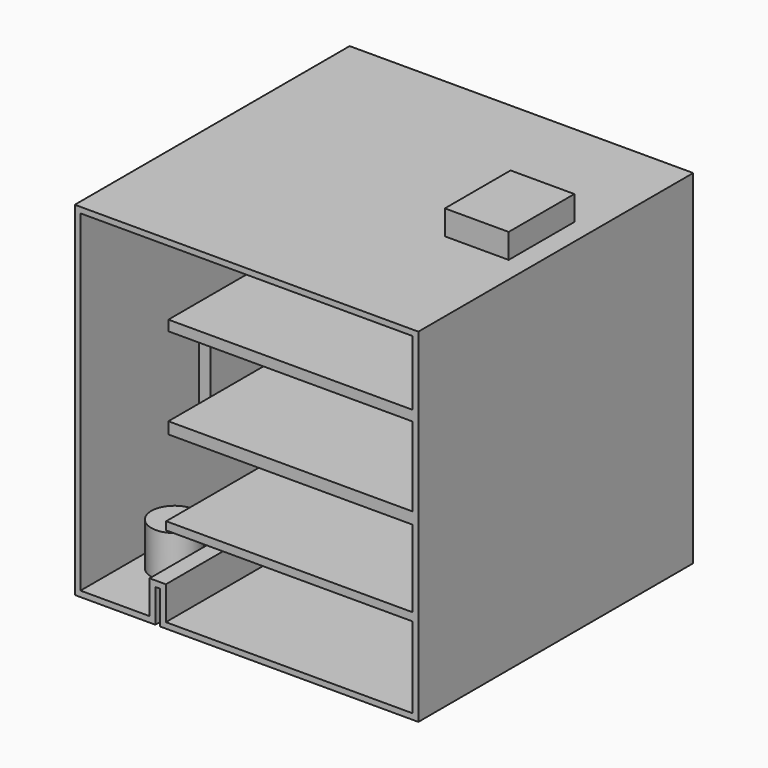
from build123d import *

# Parameters (mm, degrees)
F1_DEPTH  = 300
F2_T      = -10
F3_R      = 40.4208706322
F3_R_2    = 40.2339451726
F4_DEPTH  = 75
F5_W      = 426.5346491337
F5_H      = 17.9281830788
F5_H_2    = 20.2991783619
F5_W_2    = 430.3763920069
F5_H_3    = 14.0864104033
F6_DEPTH  = 590
F7_W      = 20.4893276095
F7_H      = 143.4252560139
F8_DEPTH  = 102
F9_W      = 111.4106178284
F9_H      = 143.425244838
F10_DEPTH = 43


with BuildPart() as f1:
    # F0 (on Front) → F1 (new body, symmetric)
    with BuildSketch(Plane.XZ):
        Polygon((0, 600), (0, 0), (140.6750679016, 0), (140.6750679016, 58.1811070442), (149.0360796452, 58.1811070442), (149.0360796452, 0), (600, 0), (600, 600), align=None)
    extrude(amount=F1_DEPTH, both=True)

    # F2
    f2_openings = [f1.faces().sort_by_distance(p)[0] for p in [
        (300.209924, -300, 300.366564),
    ]]
    offset(amount=F2_T, openings=f2_openings, kind=Kind.INTERSECTION)

    # F3 (on face) → F4 (join)
    with BuildSketch(Plane.XY.offset(10)):
        with Locations((68.6978474259, -168.2388931513)):
            Circle(F3_R)
        with Locations((68.6788782477, 155.8891236782)):
            Circle(F3_R_2)
    extrude(amount=F4_DEPTH)

    # F5 (on face) → F6 (join, through all)
    with BuildSketch(Plane.XZ.offset(300)):
        with Locations((376.7326754332, 467.5661623478)):
            Rectangle(F5_W, F5_H)
        with Locations((376.7326754332, 310.1495891809)):
            Rectangle(F5_W, F5_H_2)
        with Locations((374.8118039966, 158.3054736257)):
            Rectangle(F5_W_2, F5_H_3)
    extrude(amount=-F6_DEPTH)

    # F9 (on face) → F10 (join)
    with BuildSketch(Plane.XY.offset(600)):
        with Locations((508.0946683884, 14.0863787383)):
            Rectangle(F9_W, F9_H)
    extrude(amount=F10_DEPTH)


with BuildPart() as f8:
    # F7 (on Front) → F8 (new body, symmetric)
    with BuildSketch(Plane.XZ):
        with Locations((68.3449544013, 289.0791445971)):
            Rectangle(F7_W, F7_H)
    extrude(amount=F8_DEPTH, both=True)


solid = Compound([f1.part, f8.part])
